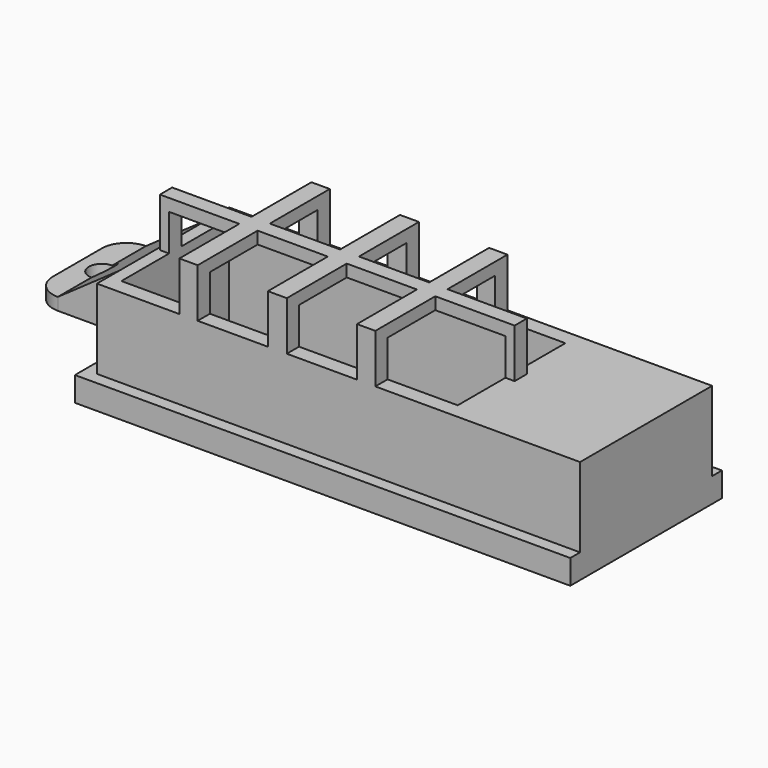
from build123d import *

# Parameters (mm, degrees)
SKETCH033_R          = 2.125
PAD011_DEPTH         = 23
PAD011_DEPTH_BACK    = 2
SKETCH034_W          = 55
SKETCH034_H          = 22
POCKET011_DEPTH      = 21
SKETCH035_W          = 55
SKETCH035_H          = 19
POCKET012_DEPTH      = 2.001
SKETCH036_W          = 11.475
SKETCH036_H          = 17.75
POCKET013_DEPTH      = 210.337354
SKETCH161_W          = 2
SKETCH161_H          = 21
POCKET078_DEPTH      = 43.501
POCKET078_DEPTH_BACK = 49.501
POCKET079_DEPTH      = 15.501
POCKET079_DEPTH_BACK = 15.501
SKETCH163_W          = 2
SKETCH163_H          = 6.5
POCKET080_DEPTH      = 21.001


with BuildPart() as part:
    # Sketch033 → Pad011 (new body, two sides)
    with BuildSketch(Plane.XY) as pad011_sk:
        with BuildLine():
            Line((-31.5, 15.5), (49.5, 15.5))
            Line((49.5, 15.5), (49.5, -15.5))
            Line((49.5, -15.5), (-31.5, -15.5))
            Line((-31.5, -9), (-31.5, -15.5))
            Line((-39.5, -9), (-31.5, -9))
            ThreePointArc((-43.5, -5), (-42.328427, -7.828427), (-39.5, -9))
            Line((-43.5, 5), (-43.5, -5))
            ThreePointArc((-39.5, 9), (-42.328427, 7.828427), (-43.5, 5))
            Line((-31.5, 9), (-39.5, 9))
            Line((-31.5, 15.5), (-31.5, 9))
        make_face()
        with Locations((-39.5, 0)):
            Circle(SKETCH033_R, mode=Mode.SUBTRACT)
    extrude(amount=PAD011_DEPTH)
    extrude(pad011_sk.sketch, amount=-PAD011_DEPTH_BACK)

    # Sketch034 → Pocket011 (cut)
    with BuildSketch(Plane.XY):
        Rectangle(SKETCH034_W, SKETCH034_H)
    extrude(amount=POCKET011_DEPTH, mode=Mode.SUBTRACT)

    # Sketch035 → Pocket012 (cut, through all)
    with BuildSketch(Plane.XY):
        Rectangle(SKETCH035_W, SKETCH035_H)
    extrude(amount=-POCKET012_DEPTH, mode=Mode.SUBTRACT)

    # Sketch036 → Pocket013 (cut, through all)
    with BuildSketch(Plane.XY.offset(15)):
        Polygon((-56.025, 19), (-16.025, 19), (-16.025, 1.25), (-29, 1.25), (-29, -1.25), (-16.025, -1.25), (-16.025, -19), (-56.025, -19), align=None)
        with Locations((-7.2875, -10.125)):
            Rectangle(SKETCH036_W, SKETCH036_H)
        with Locations((-7.2875, 10.125)):
            Rectangle(SKETCH036_W, SKETCH036_H)
    pocket013 = extrude(amount=POCKET013_DEPTH, mode=Mode.SUBTRACT)

    # Mirrored006: Pocket013 across YZ
    add(pocket013.mirror(Plane.YZ), mode=Mode.SUBTRACT)

    # Sketch161 → Pocket078 (cut, two sides)
    with BuildSketch(Plane.YZ) as pocket078_sk:
        with Locations((-14.5, 12.5)):
            Rectangle(SKETCH161_W, SKETCH161_H)
        with Locations((14.5, 12.5)):
            Rectangle(SKETCH161_W, SKETCH161_H)
    extrude(amount=-POCKET078_DEPTH, mode=Mode.SUBTRACT)
    extrude(pocket078_sk.sketch, amount=POCKET078_DEPTH_BACK, mode=Mode.SUBTRACT)

    # Sketch162 → Pocket079 (cut, two sides)
    with BuildSketch(Plane.XZ) as pocket079_sk:
        Polygon((-43.5, 6), (-29.5, 6), (-29.5, 2), (-31.5, 2), (-31.5, -2), (-43.5, -2), (-43.5, 2), align=None)
        Polygon((-29.5, 15), (-43.5, 15), (-43.5, 8), (-39.5, 8), align=None)
    extrude(amount=-POCKET079_DEPTH, mode=Mode.SUBTRACT)
    extrude(pocket079_sk.sketch, amount=POCKET079_DEPTH_BACK, mode=Mode.SUBTRACT)

    # Sketch163 → Pocket080 (cut, through all)
    with BuildSketch(Plane.XY.offset(2)):
        with Locations((-30.5, 12.25)):
            Rectangle(SKETCH163_W, SKETCH163_H)
        with Locations((-30.5, -12.25)):
            Rectangle(SKETCH163_W, SKETCH163_H)
    extrude(amount=POCKET080_DEPTH, mode=Mode.SUBTRACT)


solid = part.part
